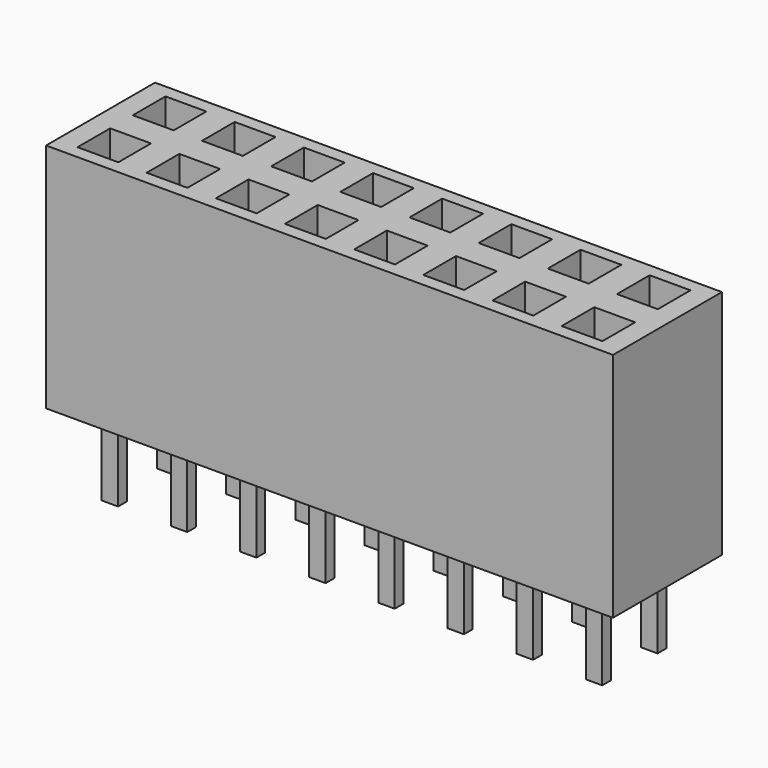
from build123d import *

# Parameters (mm, degrees)
F0_W     = 20.82
F0_H     = 5
F1_DEPTH = 8.5
F2_W     = 1.5
F2_H     = 1.5
F3_DEPTH = 7
F4_W     = 0.6
F4_H     = 0.4
F5_DEPTH = 3


with BuildPart() as f1:
    # F0 (on Top) → F1 (new body)
    with BuildSketch(Plane.XY):
        Rectangle(F0_W, F0_H)
    extrude(amount=F1_DEPTH)

    # F2 (on face) → F3 (cut)
    with BuildSketch(Plane.XY.offset(8.5)):
        with Locations((-8.89, 1.27)):
            Rectangle(F2_W, F2_H)
        with Locations((-8.89, -1.27)):
            Rectangle(F2_W, F2_H)
        with Locations((-6.35, 1.27)):
            Rectangle(F2_W, F2_H)
        with Locations((-6.35, -1.27)):
            Rectangle(F2_W, F2_H)
        with Locations((-3.81, 1.27)):
            Rectangle(F2_W, F2_H)
        with Locations((-3.81, -1.27)):
            Rectangle(F2_W, F2_H)
        with Locations((-1.27, 1.27)):
            Rectangle(F2_W, F2_H)
        with Locations((-1.27, -1.27)):
            Rectangle(F2_W, F2_H)
        with Locations((1.27, 1.27)):
            Rectangle(F2_W, F2_H)
        with Locations((1.27, -1.27)):
            Rectangle(F2_W, F2_H)
        with Locations((3.81, 1.27)):
            Rectangle(F2_W, F2_H)
        with Locations((3.81, -1.27)):
            Rectangle(F2_W, F2_H)
        with Locations((6.35, 1.27)):
            Rectangle(F2_W, F2_H)
        with Locations((6.35, -1.27)):
            Rectangle(F2_W, F2_H)
        with Locations((8.89, 1.27)):
            Rectangle(F2_W, F2_H)
        with Locations((8.89, -1.27)):
            Rectangle(F2_W, F2_H)
    extrude(amount=-F3_DEPTH, mode=Mode.SUBTRACT)

    # F4 (on face) → F5 (join)
    with BuildSketch(Plane(origin=(0, 0, 0), x_dir=(1, 0, 0), z_dir=(0, 0, -1))):
        with Locations((-8.89, 1.27)):
            Rectangle(F4_W, F4_H)
        with Locations((-8.89, -1.27)):
            Rectangle(F4_W, F4_H)
        with Locations((-6.35, 1.27)):
            Rectangle(F4_W, F4_H)
        with Locations((-6.35, -1.27)):
            Rectangle(F4_W, F4_H)
        with Locations((-3.81, 1.27)):
            Rectangle(F4_W, F4_H)
        with Locations((-3.81, -1.27)):
            Rectangle(F4_W, F4_H)
        with Locations((-1.27, 1.27)):
            Rectangle(F4_W, F4_H)
        with Locations((-1.27, -1.27)):
            Rectangle(F4_W, F4_H)
        with Locations((1.27, 1.27)):
            Rectangle(F4_W, F4_H)
        with Locations((1.27, -1.27)):
            Rectangle(F4_W, F4_H)
        with Locations((3.81, 1.27)):
            Rectangle(F4_W, F4_H)
        with Locations((3.81, -1.27)):
            Rectangle(F4_W, F4_H)
        with Locations((6.35, 1.27)):
            Rectangle(F4_W, F4_H)
        with Locations((6.35, -1.27)):
            Rectangle(F4_W, F4_H)
        with Locations((8.89, 1.27)):
            Rectangle(F4_W, F4_H)
        with Locations((8.89, -1.27)):
            Rectangle(F4_W, F4_H)
    extrude(amount=F5_DEPTH)


solid = f1.part
